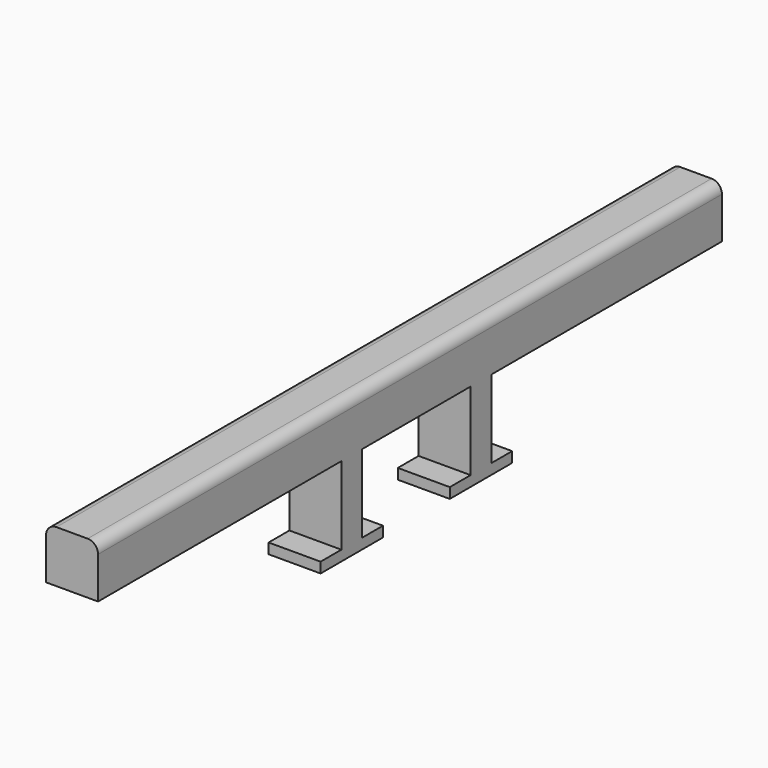
from build123d import *

# Parameters (mm, degrees)
F0_W     = 5
F0_H     = 15
F1_DEPTH = 10
F2_R     = 2


with BuildPart() as f1:
    # F0 (on Right) → F1 (new body)
    with BuildSketch(Plane.YZ):
        Polygon((59.318682, -5.853054), (114.751121, -5.853054), (114.751121, 4.146946), (-35.248879, 4.146946), (-35.248879, -5.853054), (23.255768, -5.853054), (28.255768, -5.853054), (54.318682, -5.853054), align=None)
        with Locations((56.818682, -13.353054)):
            Rectangle(F0_W, F0_H)
        Polygon((64.318682, -20.853054), (59.318682, -20.853054), (54.318682, -20.853054), (49.318682, -20.853054), (49.318682, -22.853054), (64.318682, -22.853054), align=None)
        with Locations((25.755768, -13.353054)):
            Rectangle(F0_W, F0_H)
        Polygon((33.255768, -20.853054), (28.255768, -20.853054), (23.255768, -20.853054), (18.255768, -20.853054), (18.255768, -22.853054), (33.255768, -22.853054), align=None)
    extrude(amount=F1_DEPTH)

    # F2
    f2_edges = [f1.edges().sort_by_distance(p)[0] for p in [
        (10, 39.751121, 4.146946),
        (0, 39.751121, 4.146946),
    ]]
    fillet(f2_edges, radius=F2_R)


solid = f1.part
